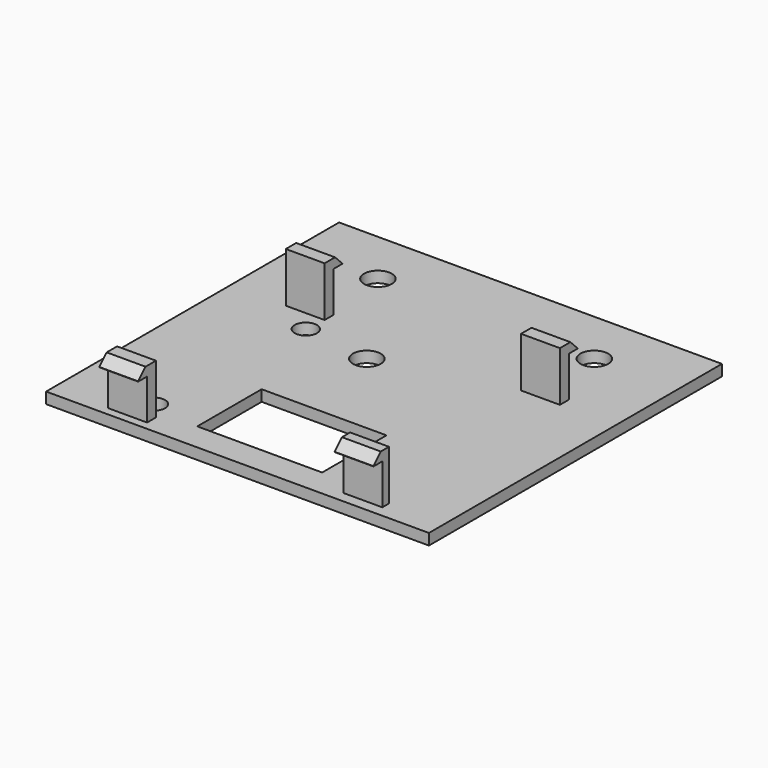
from build123d import *

# Parameters (mm, degrees)
SKETCH_W        = 69
SKETCH_H        = 66
SKETCH_R        = 2.5
SKETCH_R_2      = 2
SKETCH_W_2      = 22.5
SKETCH_H_2      = 14.5
PAD_DEPTH       = 2
SKETCH011_R     = 2.5
POCKET_DEPTH    = 2
SKETCH012_W     = 7
SKETCH012_H     = 2
SKETCH012_H_2   = 1.5
PAD001_DEPTH    = 9
SKETCH013_W     = 7
SKETCH013_H     = 1.7
PAD002_DEPTH    = 2
CHAMFER_SIZE    = 1.65
SKETCH014_W     = 7
SKETCH014_H     = 1.7
PAD003_DEPTH    = 2
CHAMFER001_SIZE = 1.65
SKETCH015_W     = 7
SKETCH015_H     = 1.7
PAD004_DEPTH    = 2
CHAMFER002_SIZE = 1.65
SKETCH016_W     = 7
SKETCH016_H     = 1.7
PAD005_DEPTH    = 2
CHAMFER003_SIZE = 1.65


with BuildPart() as part:
    # Sketch → Pad (new body)
    with BuildSketch(Plane.XY):
        Rectangle(SKETCH_W, SKETCH_H)
        with Locations((-19.5, 23)):
            Circle(SKETCH_R, mode=Mode.SUBTRACT)
        with Locations((19.5, 23)):
            Circle(SKETCH_R, mode=Mode.SUBTRACT)
        with Locations((-20.25, -26.5)):
            Circle(SKETCH_R_2, mode=Mode.SUBTRACT)
        with Locations((-17.85, 4.7)):
            Circle(SKETCH_R_2, mode=Mode.SUBTRACT)
        with Locations((0, -20.75)):
            Rectangle(SKETCH_W_2, SKETCH_H_2, mode=Mode.SUBTRACT)
    extrude(amount=PAD_DEPTH)

    # Sketch011 → Pocket (cut)
    with BuildSketch(Plane.XY.offset(2)):
        with Locations((-5.5, 3)):
            Circle(SKETCH011_R)
    extrude(amount=-POCKET_DEPTH, mode=Mode.SUBTRACT)

    # Sketch012 (on Face5 of Pocket) → Pad001 (join)
    with BuildSketch(Plane.XY.offset(2)):
        with Locations((-21, 9.5)):
            Rectangle(SKETCH012_W, SKETCH012_H)
        with Locations((21, -30.25)):
            Rectangle(SKETCH012_W, SKETCH012_H_2)
        with Locations((21, 10)):
            Rectangle(SKETCH012_W, SKETCH012_H)
        with Locations((-21, -30.5)):
            Rectangle(SKETCH012_W, SKETCH012_H)
    extrude(amount=PAD001_DEPTH)

    # Sketch013 (on Face22 of Pad001) → Pad002 (join)
    with BuildSketch(Plane.XZ.offset(31.5)):
        with Locations((-21, 10.15)):
            Rectangle(SKETCH013_W, SKETCH013_H)
    extrude(amount=PAD002_DEPTH)

    # Chamfer
    chamfer_edges = [part.edges().sort_by_distance(p)[0] for p in [
        (-21, -33.5, 11),
    ]]
    chamfer(chamfer_edges, length=CHAMFER_SIZE)

    # Sketch014 (on Face32 of Chamfer) → Pad003 (join)
    with BuildSketch(Plane.XZ.offset(31)):
        with Locations((21, 10.15)):
            Rectangle(SKETCH014_W, SKETCH014_H)
    extrude(amount=PAD003_DEPTH)

    # Chamfer001
    chamfer001_edges = [part.edges().sort_by_distance(p)[0] for p in [
        (21, -33, 11),
    ]]
    chamfer(chamfer001_edges, length=CHAMFER001_SIZE)

    # Sketch015 (on Face16 of Pad001) → Pad004 (join)
    with BuildSketch(Plane(origin=(0, 11, 0), x_dir=(-1, 0, 0), z_dir=(0, 1, 0))):
        with Locations((-21, 10.15)):
            Rectangle(SKETCH015_W, SKETCH015_H)
    extrude(amount=PAD004_DEPTH)

    # Chamfer002
    chamfer002_edges = [part.edges().sort_by_distance(p)[0] for p in [
        (21, 13, 11),
    ]]
    chamfer(chamfer002_edges, length=CHAMFER002_SIZE)

    # Sketch016 (on Face24 of Chamfer002) → Pad005 (join)
    with BuildSketch(Plane(origin=(0, 10.5, 0), x_dir=(-1, 0, 0), z_dir=(0, 1, 0))):
        with Locations((21, 10.15)):
            Rectangle(SKETCH016_W, SKETCH016_H)
    extrude(amount=PAD005_DEPTH)

    # Chamfer003
    chamfer003_edges = [part.edges().sort_by_distance(p)[0] for p in [
        (-21, 12.5, 11),
    ]]
    chamfer(chamfer003_edges, length=CHAMFER003_SIZE)


solid = part.part
